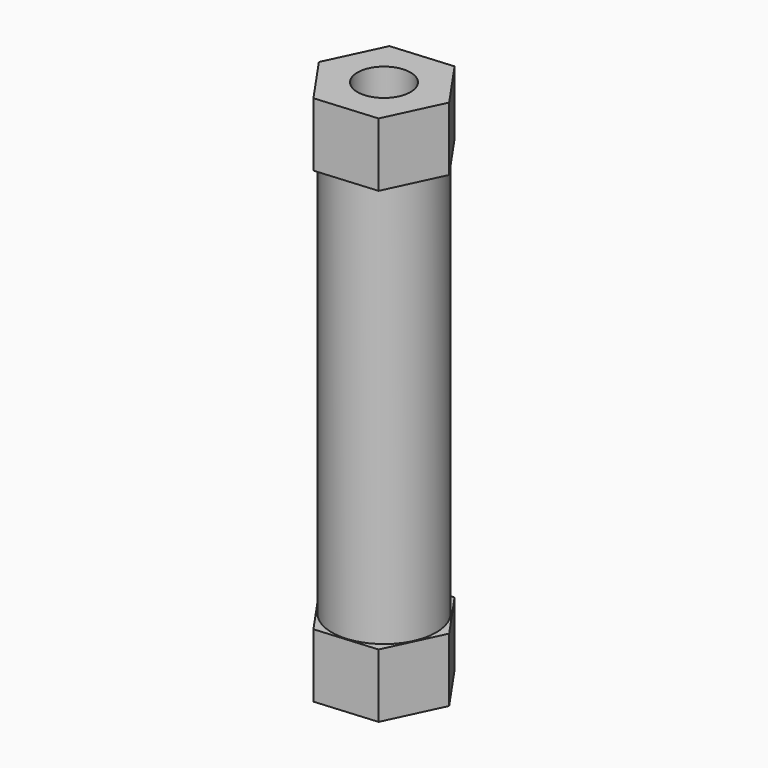
from build123d import *

# Parameters (mm, degrees)
F1_DEPTH = 25
F3_D     = 2.5
F5_R     = 12.8012424822
F5_R_2   = 2.45
F6_DEPTH = 19


with BuildPart() as f1:
    # F0 (on Top) → F1 (new body)
    with BuildSketch(Plane.XY):
        Polygon((1.643359007, -2.3733319421), (2.877045257, 0.2365246766), (1.2336862499, 2.6098566187), (-1.643359007, 2.3733319421), (-2.877045257, -0.2365246766), (-1.2336862499, -2.6098566187), align=None)
        Polygon((1.643359007, -2.3733319421), (2.877045257, 0.2365246766), (1.2336862499, 2.6098566187), (-1.643359007, 2.3733319421), (-2.877045257, -0.2365246766), (-1.2336862499, -2.6098566187), align=None)
    extrude(amount=F1_DEPTH)

    # F3 (through all)
    with Locations(Plane.XY.offset(25)):
        with Locations((0, 0)):
            Hole(F3_D / 2)


with BuildPart() as f6:
    # F5 (on offset) → F6 (new body)
    with BuildSketch(Plane.XY.offset(3)):
        Circle(F5_R)
        Circle(F5_R_2, mode=Mode.SUBTRACT)
    extrude(amount=F6_DEPTH)


with BuildPart() as f1_1:
    add(f1.part)

    # F7: cut F6
    add(f6.part, mode=Mode.SUBTRACT)


solid = f1_1.part
